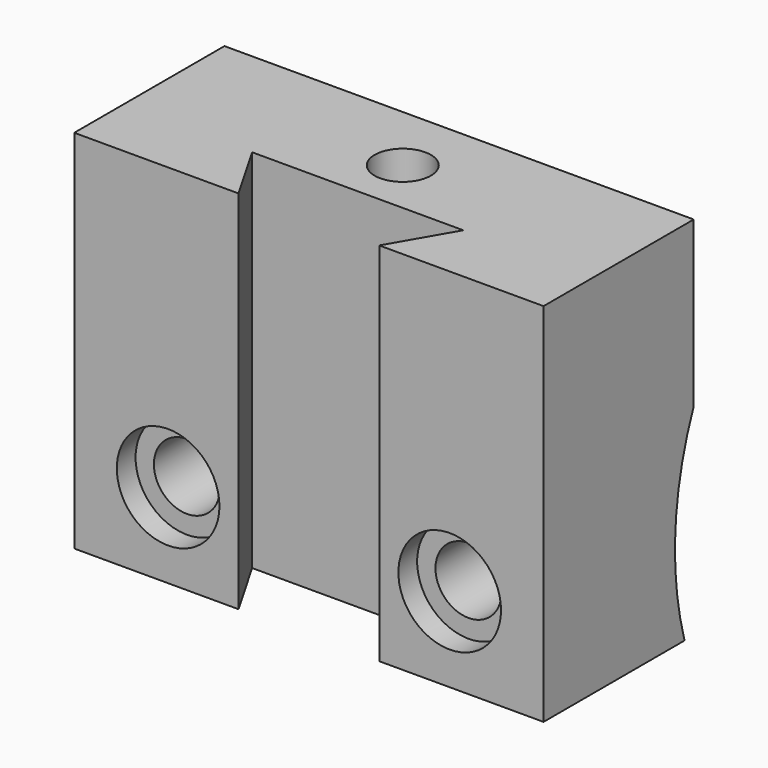
from build123d import *

# Parameters (mm, degrees)
F0_W           = 25.4
F0_H           = 19.812
F1_DEPTH       = 10.16
F3_D           = 3.571875
F3_CBORE_D     = 5.55625
F3_CBORE_DEPTH = 1.27
F4_D           = 3.571875
F4_CBORE_D     = 5.55625
F4_CBORE_DEPTH = 1.27
F6_DEPTH       = 19.813
F8_D           = 3.048
F10_DEPTH      = 25.4


with BuildPart() as f1:
    # F0 (on Front) → F1 (new body)
    with BuildSketch(Plane.XZ):
        with Locations((12.7, 9.906)):
            Rectangle(F0_W, F0_H)
    extrude(amount=F1_DEPTH)

    # F3 (through all)
    with Locations(Plane.XZ.offset(10.16)):
        with Locations((5.08, 4.572)):
            CounterBoreHole(F3_D / 2, F3_CBORE_D / 2, F3_CBORE_DEPTH)

    # F4 (through all)
    with Locations(Plane.XZ.offset(10.16)):
        with Locations((20.32, 4.572)):
            CounterBoreHole(F4_D / 2, F4_CBORE_D / 2, F4_CBORE_DEPTH)

    # F5 (on face) → F6 (cut, through all)
    with BuildSketch(Plane(origin=(0, 0, 0), x_dir=(1, 0, 0), z_dir=(0, 0, -1))):
        Polygon((16.5071788223, 10.16), (8.89, 10.16), (6.9835894111, 6.858), (18.4135894111, 6.858), align=None)
    extrude(amount=-F6_DEPTH, mode=Mode.SUBTRACT)

    # F8 (through all)
    with Locations(Plane.XY.offset(19.812)):
        with Locations((12.6985894111, -3.8099997389)):
            Hole(F8_D / 2)

    # F9 (on face) → F10 (cut)
    with BuildSketch(Plane.YZ.offset(25.4)):
        with BuildLine():
            ThreePointArc((31.623, 4.572), (15.1765, 21.0185), (-1.27, 4.572))
            Line((-1.27, 4.572), (0, 4.572))
            Line((0, 4.572), (31.623, 4.572))
        make_face()
        with BuildLine():
            Line((0, 4.572), (-1.27, 4.572))
            ThreePointArc((-1.27, 4.572), (15.1765, -11.8745), (31.623, 4.572))
            Line((31.623, 4.572), (0, 4.572))
        make_face()
    extrude(amount=-F10_DEPTH, mode=Mode.SUBTRACT)


solid = f1.part
